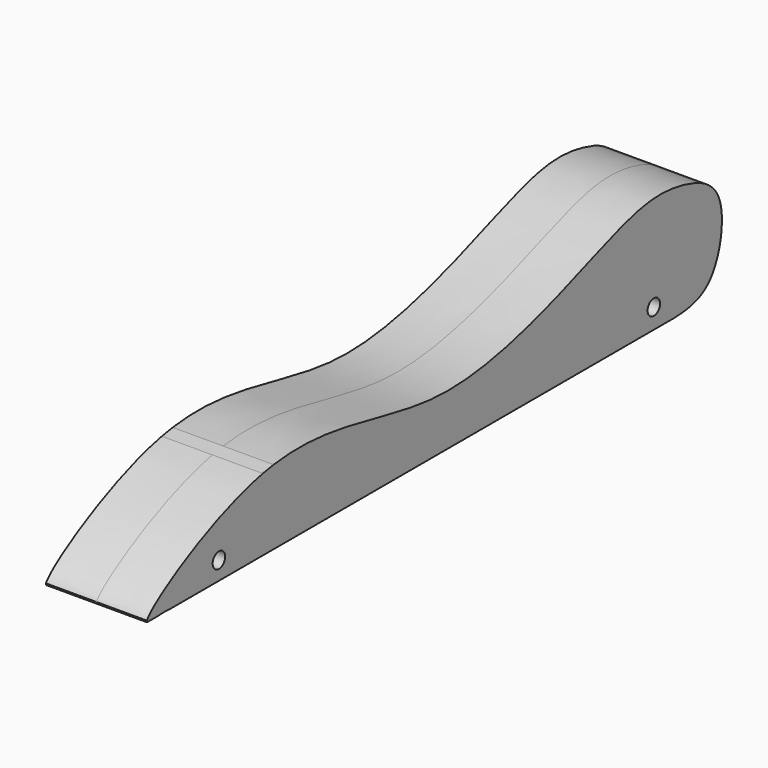
from build123d import *

# Parameters (mm, degrees)
F0_R     = 3.25
F1_DEPTH = 21


with BuildPart() as f1:
    # F0 (on Right) → F1 (new body, symmetric)
    with BuildSketch(Plane.YZ):
        with BuildLine():
            Line((105.502113587, -34.9971709955), (124.668445329, -34.9966570689))
            add(Edge.make_bspline(
                [(-84.1072786547, -4.0229004557), (-52.4883370175, 0.2504227513), (0.6548018517, -24.9080376876), (75.0778261275, 1.4864868471), (108.0448382237, 14.3124525772), (129.8142395832, 12.7833679801), (152.9400135074, 3.4476002031), (146.8252167679, -32.9191382622), (131.6688854886, -34.6988186379), (124.6684453291, -34.9966570689)],
                knots=[0.1087070662, 0.1087070662, 0.1087070662, 0.1087070662, 0.2218036192, 0.3300961655, 0.4029947998, 0.4596801521, 0.516387108, 0.5830113223, 0.6381126975, 0.6381126975, 0.6381126975, 0.6381126975], degree=3))
            Line((-84.1072786547, -4.0229004557), (-89.7489796886, -4.963531308))
            add(Edge.make_bspline(
                [(-149.9678401013, -34.3928262286), (-148.3763412579, -29.743278927), (-117.3086455998, -10.4418294624), (-89.7489796886, -4.963531308)],
                knots=[0.0051320026, 0.0051320026, 0.0051320026, 0.0051320026, 0.1020374295, 0.1020374295, 0.1020374295, 0.1020374295], degree=3))
            Line((-149.9678401013, -34.3928262286), (-149.9677823067, -35.0040211728))
            Line((-149.9677823067, -35.0040211728), (-143.6944173157, -35.0038529586))
            add(Edge.make_bspline(
                [(-137.6362800843, -35.0036905156), (-141.4446271329, -34.8875220902), (-141.7263823323, -34.7382054392), (-143.6944173157, -35.0038529586)],
                knots=[0.9382308353, 0.9382308353, 0.9382308353, 0.9382308353, 0.9688458752, 0.9688458752, 0.9688458752, 0.9688458752], degree=3))
            Line((-137.6362800844, -35.0036905156), (80.7900474102, -34.9978336255))
            add(Edge.make_bspline(
                [(105.502113587, -34.9971709955), (99.6050333425, -34.8924174164), (96.1077557334, -34.9286169051), (80.7900474103, -34.9978336255)],
                knots=[0.6925673232, 0.6925673232, 0.6925673232, 0.6925673232, 0.7544002504, 0.7544002504, 0.7544002504, 0.7544002504], degree=3))
        make_face()
        with Locations((-112.5583052635, -27.4374913424)):
            Circle(F0_R, mode=Mode.SUBTRACT)
        with Locations((113.7147694826, -26.6925599426)):
            Circle(F0_R, mode=Mode.SUBTRACT)
    extrude(amount=F1_DEPTH, both=True)


solid = f1.part
